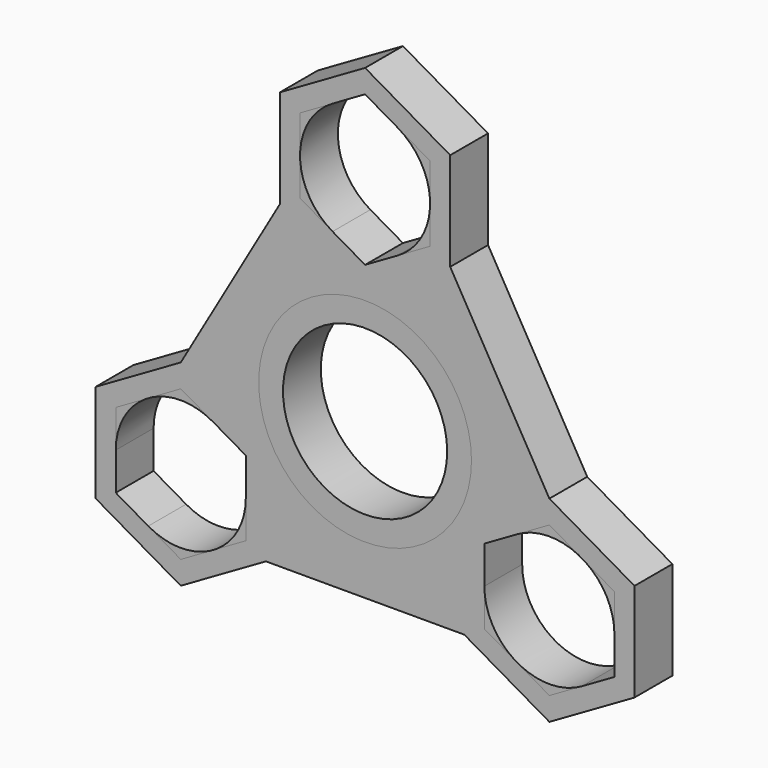
from build123d import *

# Parameters (mm, degrees)
F1_R     = 14.2875
F2_DEPTH = 6.35
F0_R     = 14.2875
F0_R_2   = 11.0236
F3_DEPTH = 6.35


with BuildPart() as f2:
    # F1 (on Front) → F2 (new body)
    with BuildSketch(Plane.XZ):
        with BuildLine():
            Line((-36.1766759131, -14.2874998792), (-36.1766759131, -20.8866135768))
            Line((-36.1766759131, -20.8866135768), (-30.4616760977, -24.1861702587))
            ThreePointArc((-30.4616760977, -24.1861702587), (-34.6453463619, -20.0024998554), (-36.1766759131, -14.2874998792))
        make_face()
        with BuildLine():
            Line((-36.1766759131, -7.6883864232), (-36.1766759131, -14.2874998792))
            ThreePointArc((-36.1766759131, -14.2874998792), (-34.6453462642, -8.5724999754), (-30.4616759686, -4.3888296668))
            Line((-30.4616759686, -4.3888296668), (-36.1766759131, -7.6883864232))
        make_face()
        with BuildLine():
            ThreePointArc((-30.4616759686, -4.3888296668), (-34.6453462642, -8.5724999754), (-36.1766759131, -14.2874998792))
            ThreePointArc((-36.1766759131, -14.2874998792), (-34.6453463619, -20.0024998554), (-30.4616760977, -24.1861702587))
            ThreePointArc((-30.4616760977, -24.1861702587), (-24.7466762295, -25.7175), (-19.0316762765, -24.186170575))
            ThreePointArc((-19.0316762765, -24.186170575), (-14.8480056528, -20.0025001817), (-13.3166759131, -14.2875))
            ThreePointArc((-13.3166759131, -14.2875), (-14.8480056284, -8.5724998605), (-19.0316761921, -4.3888294737))
            ThreePointArc((-19.0316761921, -4.3888294737), (-24.7466761062, -2.8575), (-30.4616759686, -4.3888296668))
        make_face()
        with BuildLine():
            ThreePointArc((-16.0154259131, -14.2875), (-20.3810506973, -21.8489841822), (-29.1123004814, -21.848984556))
            Line((-29.1123004814, -21.848984556), (-33.4779259131, -19.3284895379))
            Line((-33.4779259131, -19.3284895379), (-33.4779259131, -14.2875))
            ThreePointArc((-33.4779259131, -14.2875), (-29.1123008814, -6.7260156749), (-20.3810508496, -6.7260157299))
            Line((-20.3810508496, -6.7260157299), (-16.0154259131, -9.2465104621))
            Line((-16.0154259131, -9.2465104621), (-16.0154259131, -14.2875))
        make_face(mode=Mode.SUBTRACT)
        with BuildLine():
            ThreePointArc((-19.0316762765, -24.186170575), (-24.7466762295, -25.7175), (-30.4616760977, -24.1861702587))
            Line((-30.4616760977, -24.1861702587), (-24.7466759131, -27.4857271537))
            Line((-24.7466759131, -27.4857271537), (-19.0316762765, -24.186170575))
        make_face()
        with BuildLine():
            Line((-24.7466759131, -1.0892728463), (-30.4616759686, -4.3888296668))
            ThreePointArc((-30.4616759686, -4.3888296668), (-24.7466761062, -2.8575), (-19.0316761921, -4.3888294737))
            Line((-19.0316761921, -4.3888294737), (-24.7466759131, -1.0892728463))
        make_face()
        with BuildLine():
            ThreePointArc((-13.3166759131, -14.2875), (-14.8480056528, -20.0025001817), (-19.0316762765, -24.186170575))
            Line((-19.0316762765, -24.186170575), (-13.3166759131, -20.8866135768))
            Line((-13.3166759131, -20.8866135768), (-13.3166759131, -14.2875))
        make_face()
        Polygon((-24.7466759131, -1.0892728463), (-19.0316761921, -4.3888294737), (-13.3166759131, -7.6883864232), (-13.3166759131, -14.2875), (-13.3166759131, -20.8866135768), (13.3166759131, -20.8866135768), (13.3166759131, -14.2875000109), (13.3166759131, -7.6883864232), (19.0316752301, -4.3888300291), (24.7466759131, -1.0892728463), (11.43, 21.9758864232), (5.7149999664, 18.6763296153), (0, 15.3767728463), (-5.7149996367, 18.676329425), (-11.43, 21.9758864232), align=None)
        Circle(F1_R, mode=Mode.SUBTRACT)
        with BuildLine():
            Line((-11.43, 28.575), (-11.43, 21.9758864232))
            Line((-11.43, 21.9758864232), (-5.7149996367, 18.676329425))
            ThreePointArc((-5.7149996367, 18.676329425), (-9.8986702604, 22.8599998183), (-11.43, 28.575))
        make_face()
        with BuildLine():
            Line((13.3166759131, -14.2875000109), (13.3166759131, -20.8866135768))
            Line((13.3166759131, -20.8866135768), (19.0316758579, -24.1861703334))
            ThreePointArc((19.0316758579, -24.1861703334), (14.8480055347, -20.0024999771), (13.3166759131, -14.2875000109))
        make_face()
        with BuildLine():
            ThreePointArc((-11.43, 28.575), (-9.8986702604, 22.8599998183), (-5.7149996367, 18.676329425))
            ThreePointArc((-5.7149996367, 18.676329425), (1.904e-07, 17.145), (5.7149999664, 18.6763296153))
            ThreePointArc((5.7149999664, 18.6763296153), (9.8986703555, 22.8599999832), (11.43, 28.575))
            ThreePointArc((11.43, 28.575), (9.8986702746, 34.290000157), (5.7149996861, 38.4736705465))
            ThreePointArc((5.7149996861, 38.4736705465), (-2.131e-07, 40.005), (-5.7150000552, 38.4736703334))
            ThreePointArc((-5.7150000552, 38.4736703334), (-9.8986703812, 34.2899999724), (-11.43, 28.575))
        make_face()
        with BuildLine():
            Line((4.3656250471, 21.0135157204), (0, 18.4930209243))
            Line((0, 18.4930209243), (-4.3656250471, 21.0135157204))
            ThreePointArc((-4.3656250471, 21.0135157204), (-8.73125, 28.575), (-4.3656250471, 36.1364842796))
            Line((-4.3656250471, 36.1364842796), (0, 38.6569790757))
            Line((0, 38.6569790757), (4.3656252998, 36.1364841337))
            ThreePointArc((4.3656252998, 36.1364841337), (7.5614843933, 32.9406248501), (8.73125, 28.575))
            ThreePointArc((8.73125, 28.575), (7.5614843204, 24.2093750235), (4.3656250471, 21.0135157204))
        make_face(mode=Mode.SUBTRACT)
        with BuildLine():
            Line((-11.43, 35.1741135768), (-11.43, 28.575))
            ThreePointArc((-11.43, 28.575), (-9.8986703812, 34.2899999724), (-5.7150000552, 38.4736703334))
            Line((-5.7150000552, 38.4736703334), (-11.43, 35.1741135768))
        make_face()
        with BuildLine():
            ThreePointArc((30.4616759683, -24.1861703334), (24.7466759131, -25.7175), (19.0316758579, -24.1861703334))
            Line((19.0316758579, -24.1861703334), (24.7466759131, -27.4857271537))
            Line((24.7466759131, -27.4857271537), (30.4616759683, -24.1861703334))
        make_face()
        with BuildLine():
            ThreePointArc((13.3166759131, -14.2875000109), (14.8480055347, -20.0024999771), (19.0316758579, -24.1861703334))
            ThreePointArc((19.0316758579, -24.1861703334), (24.7466759131, -25.7175), (30.4616759683, -24.1861703334))
            ThreePointArc((30.4616759683, -24.1861703334), (34.6453462943, -20.0024999724), (36.1766759131, -14.2875))
            ThreePointArc((36.1766759131, -14.2875), (30.4616755716, -4.3888294376), (19.0316752301, -4.3888300291))
            ThreePointArc((19.0316752301, -4.3888300291), (14.848005348, -8.5725003462), (13.3166759131, -14.2875000109))
        make_face()
        with BuildLine():
            ThreePointArc((29.1123009602, -21.8489842796), (20.3810509649, -21.8489843367), (16.0154259131, -14.2875000653))
            Line((16.0154259131, -14.2875000653), (16.0154259131, -9.2465104621))
            Line((16.0154259131, -9.2465104621), (20.3810511086, -6.7260155804))
            ThreePointArc((20.3810511086, -6.7260155804), (29.1123010109, -6.7260157496), (33.4779259131, -14.2875))
            Line((33.4779259131, -14.2875), (33.4779259131, -19.3284895379))
            Line((33.4779259131, -19.3284895379), (29.1123009602, -21.8489842796))
        make_face(mode=Mode.SUBTRACT)
        with BuildLine():
            Line((13.3166759131, -7.6883864232), (13.3166759131, -14.2875000109))
            ThreePointArc((13.3166759131, -14.2875000109), (14.848005348, -8.5725003462), (19.0316752301, -4.3888300291))
            Line((19.0316752301, -4.3888300291), (13.3166759131, -7.6883864232))
        make_face()
        with BuildLine():
            ThreePointArc((11.43, 28.575), (9.8986703555, 22.8599999832), (5.7149999664, 18.6763296153))
            Line((5.7149999664, 18.6763296153), (11.43, 21.9758864232))
            Line((11.43, 21.9758864232), (11.43, 28.575))
        make_face()
        with BuildLine():
            Line((0, 41.7732271537), (-5.7150000552, 38.4736703334))
            ThreePointArc((-5.7150000552, 38.4736703334), (-2.131e-07, 40.005), (5.7149996861, 38.4736705465))
            Line((5.7149996861, 38.4736705465), (0, 41.7732271537))
        make_face()
        with BuildLine():
            ThreePointArc((36.1766759131, -14.2875), (34.6453462943, -20.0024999724), (30.4616759683, -24.1861703334))
            Line((30.4616759683, -24.1861703334), (36.1766759131, -20.8866135768))
            Line((36.1766759131, -20.8866135768), (36.1766759131, -14.2875))
        make_face()
        with BuildLine():
            ThreePointArc((5.7149996861, 38.4736705465), (9.8986702746, 34.290000157), (11.43, 28.575))
            Line((11.43, 28.575), (11.43, 35.1741135768))
            Line((11.43, 35.1741135768), (5.7149996861, 38.4736705465))
        make_face()
    extrude(amount=F2_DEPTH)


with BuildPart() as f2b:
    # F0 (on Front) → F2, piece 2 (new body)
    with BuildSketch(Plane.XZ):
        Circle(F0_R)
        Circle(F0_R_2, mode=Mode.SUBTRACT)
    extrude(amount=F2_DEPTH)


with BuildPart() as f3:
    # F0 (on Front) → F3 (new body)
    with BuildSketch(Plane.XZ):
        Polygon((-11.43, 35.1741135768), (-11.43, 21.9758864232), (0, 15.3767728463), (11.43, 21.9758864232), (11.43, 35.1741135768), (0, 41.7732271537), align=None)
        Polygon((0, 38.6569790757), (8.73125, 33.6159895379), (8.73125, 23.5340104621), (0, 18.4930209243), (-8.73125, 23.5340104621), (-8.73125, 33.6159895379), align=None, mode=Mode.SUBTRACT)
        Polygon((0, 15.3767728463), (-11.43, 21.9758864232), (-24.7466759131, -1.0892728463), (-13.3166759131, -7.6883864232), (-13.3166759131, -20.8866135768), (13.3166759131, -20.8866135768), (13.3166759131, -7.6883864232), (24.7466759131, -1.0892728463), (11.43, 21.9758864232), align=None)
        Circle(F0_R, mode=Mode.SUBTRACT)
        Polygon((-13.3166759131, -7.6883864232), (-24.7466759131, -1.0892728463), (-36.1766759131, -7.6883864232), (-36.1766759131, -20.8866135768), (-24.7466759131, -27.4857271537), (-13.3166759131, -20.8866135768), align=None)
        Polygon((-33.4779259131, -19.3284895379), (-33.4779259131, -9.2465104621), (-24.7466759131, -4.2055209243), (-16.0154259131, -9.2465104621), (-16.0154259131, -19.3284895379), (-24.7466759131, -24.3694790757), align=None, mode=Mode.SUBTRACT)
        Polygon((36.1766759131, -7.6883864232), (24.7466759131, -1.0892728463), (13.3166759131, -7.6883864232), (13.3166759131, -20.8866135768), (24.7466759131, -27.4857271537), (36.1766759131, -20.8866135768), align=None)
        Polygon((33.4779259131, -19.3284895379), (24.7466759131, -24.3694790757), (16.0154259131, -19.3284895379), (16.0154259131, -9.2465104621), (24.7466759131, -4.2055209243), (33.4779259131, -9.2465104621), align=None, mode=Mode.SUBTRACT)
    extrude(amount=F3_DEPTH)


solid = Compound([f2.part, f2b.part, f3.part])
